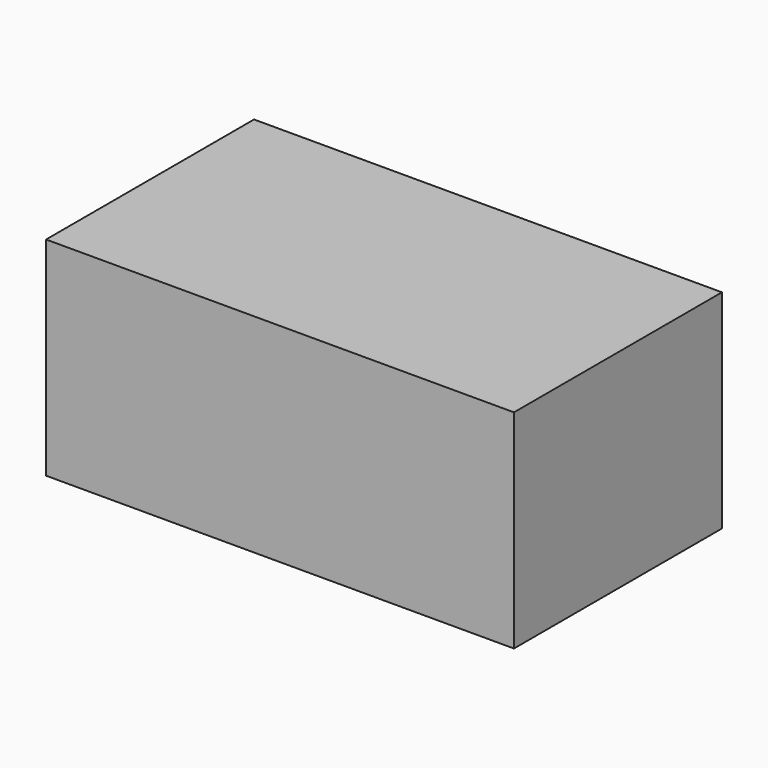
from build123d import *

# Parameters (mm, degrees)
SKETCH_W  = 45
SKETCH_H  = 25
PAD_DEPTH = 20


with BuildPart() as part:
    # Sketch → Pad (new body)
    with BuildSketch(Plane.XY):
        with Locations((22.5, 12.5)):
            Rectangle(SKETCH_W, SKETCH_H)
    extrude(amount=PAD_DEPTH)


solid = part.part
